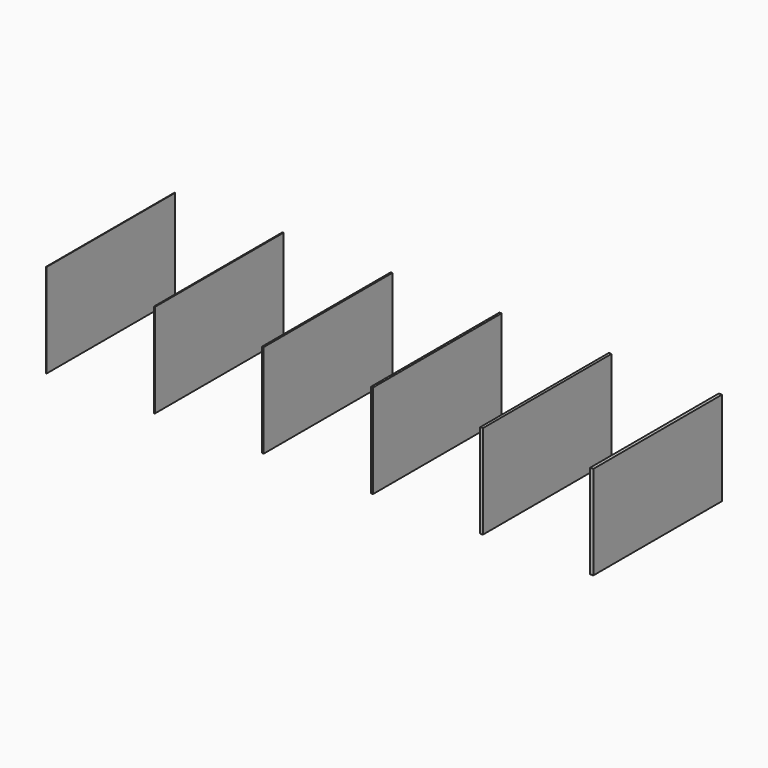
from build123d import *

# Parameters (mm, degrees)
F0_W     = 1.2
F0_H     = 60
F0_W_2   = 1
F0_W_3   = 0.8
F0_W_4   = 0.6
F0_W_5   = 0.4
F0_W_6   = 0.2
F1_DEPTH = 35


with BuildPart() as f1:
    # F0 (on Top) → F1 (new body)
    with BuildSketch(Plane.XY):
        with Locations((-6.6, 150)):
            Rectangle(F0_W, F0_H)
        with Locations((-47.7, 150)):
            Rectangle(F0_W_2, F0_H)
        with Locations((-88.6, 150)):
            Rectangle(F0_W_3, F0_H)
        with Locations((-129.3, 150)):
            Rectangle(F0_W_4, F0_H)
        with Locations((-169.8, 150)):
            Rectangle(F0_W_5, F0_H)
        with Locations((-210.1, 150)):
            Rectangle(F0_W_6, F0_H)
    extrude(amount=F1_DEPTH)


solid = f1.part
